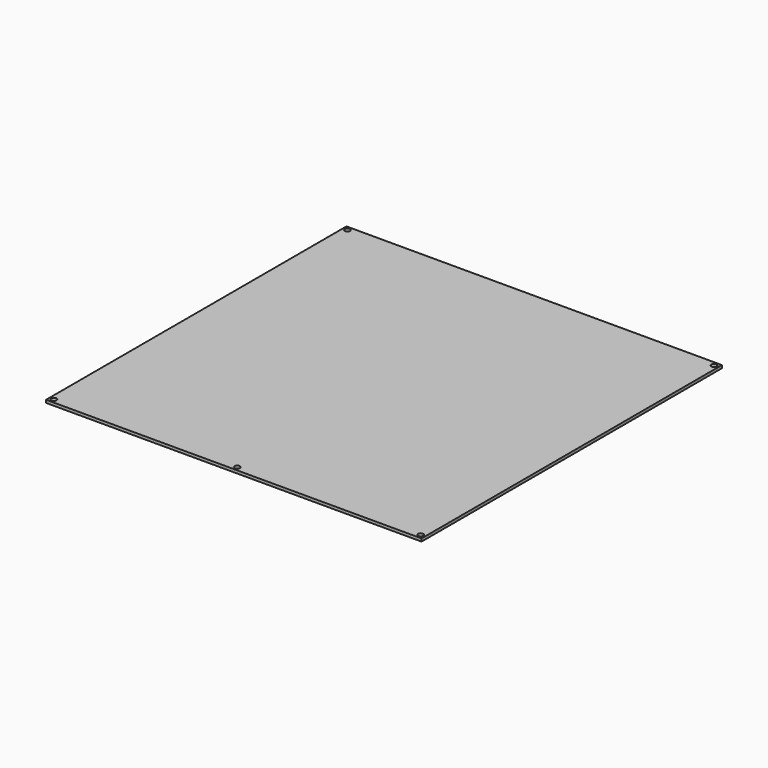
from build123d import *

# Parameters (mm, degrees)
F0_W     = 214
F0_H     = 214
F1_DEPTH = 1.6


with BuildPart() as f1:
    # F0 (on Top) → F1 (new body)
    with BuildSketch(Plane.XY):
        with Locations((107, 107)):
            Rectangle(F0_W, F0_H)
        with BuildLine():
            Line((105.5, 2.5), (4, 2.5))
            ThreePointArc((4, 2.5), (1.4393398282, 1.4393398282), (2.5, 4))
            Line((2.5, 4), (2.5, 210))
            ThreePointArc((2.5, 210), (1.4393398282, 212.5606601718), (4, 211.5))
            Line((4, 211.5), (210, 211.5))
            ThreePointArc((210, 211.5), (211.5, 213), (213, 211.5))
            ThreePointArc((213, 211.5), (212.5606601718, 210.4393398282), (211.5, 210))
            Line((211.5, 210), (211.5, 4))
            ThreePointArc((211.5, 4), (212.5606601718, 3.5606601718), (213, 2.5))
            ThreePointArc((213, 2.5), (211.5, 1), (210, 2.5))
            Line((210, 2.5), (108.5, 2.5))
            ThreePointArc((108.5, 2.5), (107, 1), (105.5, 2.5))
        make_face(mode=Mode.SUBTRACT)
        with BuildLine():
            ThreePointArc((2.5, 4), (3.5606601718, 3.5606601718), (4, 2.5))
            Line((4, 2.5), (105.5, 2.5))
            ThreePointArc((105.5, 2.5), (107, 4), (108.5, 2.5))
            Line((108.5, 2.5), (210, 2.5))
            ThreePointArc((210, 2.5), (210.4393398282, 3.5606601718), (211.5, 4))
            Line((211.5, 4), (211.5, 210))
            ThreePointArc((211.5, 210), (210.4393398282, 210.4393398282), (210, 211.5))
            Line((210, 211.5), (4, 211.5))
            ThreePointArc((4, 211.5), (3.5606601718, 210.4393398282), (2.5, 210))
            Line((2.5, 210), (2.5, 4))
        make_face()
    extrude(amount=F1_DEPTH)


solid = f1.part
